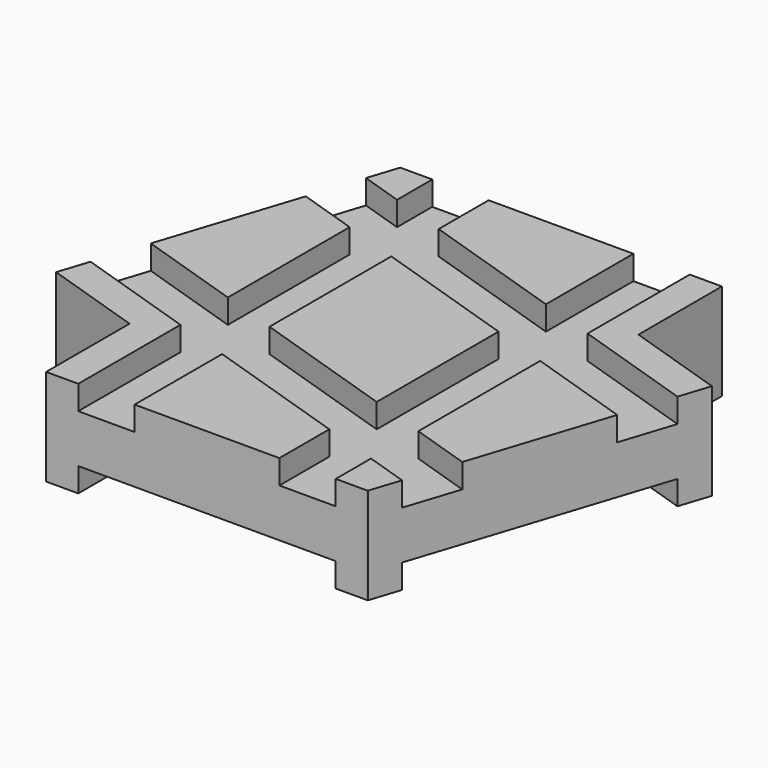
from build123d import *

# Parameters (mm, degrees)
SKETCH004_W = 32
SKETCH004_H = 3
SKETCH005_W = 7
SKETCH005_H = 3
SKETCH006_W = 7
SKETCH006_H = 3
SKETCH007_W = 32
SKETCH007_H = 3
SKETCH008_W = 7
SKETCH008_H = 3
SKETCH009_W = 7
SKETCH009_H = 3


with BuildPart() as part:
    # AdditivePipe: sweep along a path in Sketch
    with BuildLine(Plane.XY) as additivepipe_path:
        Line((0, -27.5), (0, 27.5))
    # Sketch002 (on DatumPlane) → AdditivePipe (sweep)
    with BuildSketch(Plane.XZ.offset(27.5)):
        Polygon((-20, 6), (-20, -6), (-16, -6), (-16, -3), (-9, -3), (9, -3), (16, -3), (16, -6), (20, -6), (20, 6), (16, 6), (16, 3), (9, 3), (9, 6), (-9, 6), (-9, 3), (-16, 3), (-16, 6), align=None)
    sweep(path=additivepipe_path.line)

    # AdditivePipe001: sweep along a path in Sketch001
    with BuildLine(Plane.XY) as additivepipe001_path:
        Line((-26.154054, 8.497967), (26.154054, -8.497967))
    # Sketch003 (on DatumPlane) → AdditivePipe001 (sweep)
    with BuildSketch(Plane(origin=(-26.154054, 8.497967, 0), x_dir=(-0.309017, -0.951057, 0), z_dir=(-0.951057, 0.309017, 0))):
        Polygon((-20, 6), (-20, -6), (-16, -6), (-16, -3), (-9, -3), (9, -3), (16, -3), (16, -6), (20, -6), (20, 6), (16, 6), (16, 3), (9, 3), (9, 6), (-9, 6), (-9, 3), (-16, 3), (-16, 6), align=None)
    sweep(path=additivepipe001_path.line)

    # SubtractivePipe: sweep along a path in Sketch
    with BuildLine(Plane.XY) as subtractivepipe_path:
        Line((0, -27.5), (0, 27.5))
    # Sketch004 (on DatumPlane) → SubtractivePipe (sweep, cut)
    with BuildSketch(Plane.XZ.offset(27.5)):
        with Locations((0, -4.5)):
            Rectangle(SKETCH004_W, SKETCH004_H)
    sweep(path=subtractivepipe_path.line, mode=Mode.SUBTRACT)

    # SubtractivePipe001: sweep along a path in Sketch
    with BuildLine(Plane.XY) as subtractivepipe001_path:
        Line((0, -27.5), (0, 27.5))
    # Sketch005 (on DatumPlane) → SubtractivePipe001 (sweep, cut)
    with BuildSketch(Plane.XZ.offset(27.5)):
        with Locations((-12.5, 4.5)):
            Rectangle(SKETCH005_W, SKETCH005_H)
    sweep(path=subtractivepipe001_path.line, mode=Mode.SUBTRACT)

    # SubtractivePipe002: sweep along a path in Sketch
    with BuildLine(Plane.XY) as subtractivepipe002_path:
        Line((0, -27.5), (0, 27.5))
    # Sketch006 (on DatumPlane) → SubtractivePipe002 (sweep, cut)
    with BuildSketch(Plane.XZ.offset(27.5)):
        with Locations((12.5, 4.5)):
            Rectangle(SKETCH006_W, SKETCH006_H)
    sweep(path=subtractivepipe002_path.line, mode=Mode.SUBTRACT)

    # SubtractivePipe003: sweep along a path in Sketch001
    with BuildLine(Plane.XY) as subtractivepipe003_path:
        Line((-26.154054, 8.497967), (26.154054, -8.497967))
    # Sketch007 (on DatumPlane) → SubtractivePipe003 (sweep, cut)
    with BuildSketch(Plane(origin=(-26.154054, 8.497967, 0), x_dir=(-0.309017, -0.951057, 0), z_dir=(-0.951057, 0.309017, 0))):
        with Locations((0, -4.5)):
            Rectangle(SKETCH007_W, SKETCH007_H)
    sweep(path=subtractivepipe003_path.line, mode=Mode.SUBTRACT)

    # SubtractivePipe004: sweep along a path in Sketch001
    with BuildLine(Plane.XY) as subtractivepipe004_path:
        Line((-26.154054, 8.497967), (26.154054, -8.497967))
    # Sketch008 (on DatumPlane) → SubtractivePipe004 (sweep, cut)
    with BuildSketch(Plane(origin=(-26.154054, 8.497967, 0), x_dir=(-0.309017, -0.951057, 0), z_dir=(-0.951057, 0.309017, 0))):
        with Locations((-12.5, 4.5)):
            Rectangle(SKETCH008_W, SKETCH008_H)
    sweep(path=subtractivepipe004_path.line, mode=Mode.SUBTRACT)

    # SubtractivePipe005: sweep along a path in Sketch001
    with BuildLine(Plane.XY) as subtractivepipe005_path:
        Line((-26.154054, 8.497967), (26.154054, -8.497967))
    # Sketch009 (on DatumPlane) → SubtractivePipe005 (sweep, cut)
    with BuildSketch(Plane(origin=(-26.154054, 8.497967, 0), x_dir=(-0.309017, -0.951057, 0), z_dir=(-0.951057, 0.309017, 0))):
        with Locations((12.5, 4.5)):
            Rectangle(SKETCH009_W, SKETCH009_H)
    sweep(path=subtractivepipe005_path.line, mode=Mode.SUBTRACT)


solid = part.part
